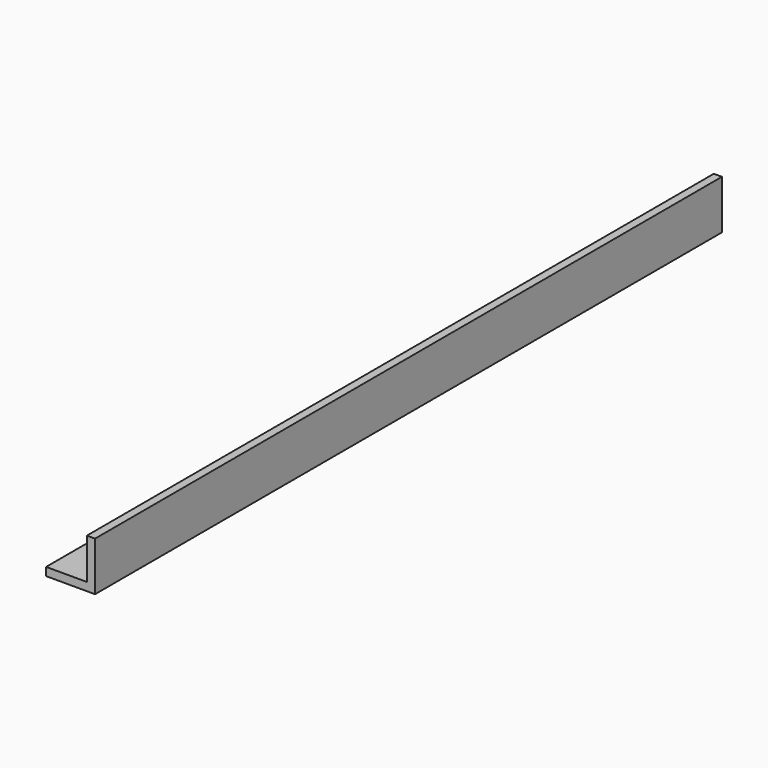
from build123d import *

# Parameters (mm, degrees)
F0_W     = 25.4
F0_H     = 127
F0_W_2   = 127
F0_H_2   = 25.4
F1_DEPTH = 2438.4


with BuildPart() as f1:
    # F0 (on Front) → F1 (new body)
    with BuildSketch(Plane.XZ):
        with Locations((-12.7, 88.9)):
            Rectangle(F0_W, F0_H)
        with Locations((-88.9, 12.7)):
            Rectangle(F0_W_2, F0_H_2)
        with Locations((-12.7, 12.7)):
            Rectangle(F0_W, F0_H_2)
    extrude(amount=F1_DEPTH)


solid = f1.part
